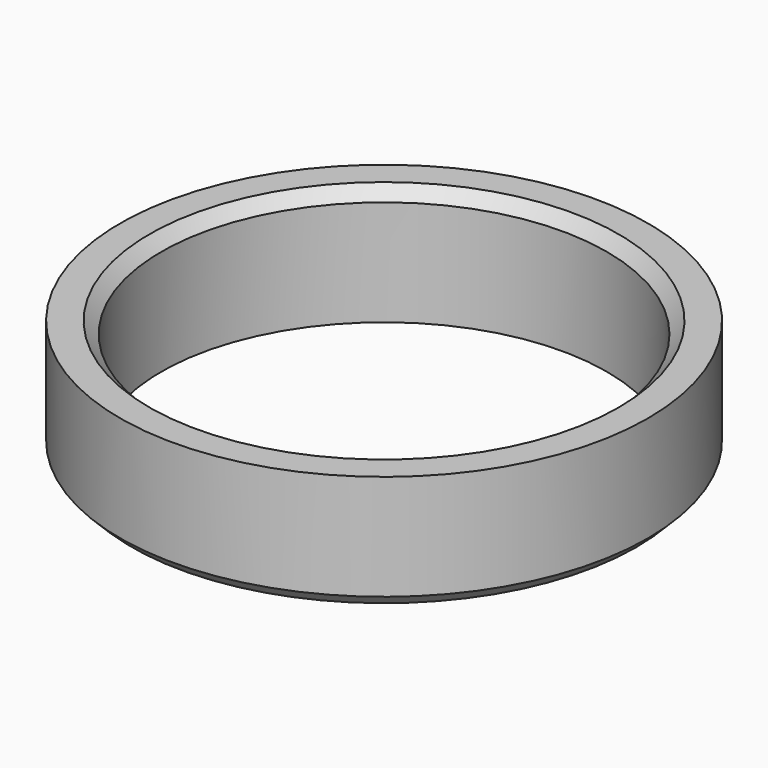
from build123d import *

# Parameters (mm, degrees)
SKETCH_R        = 22.5
SKETCH_R_2      = 19
PAD_DEPTH       = 10
CHAMFER_SIZE    = 1
CHAMFER001_SIZE = 1


with BuildPart() as part:
    # Sketch → Pad (new body)
    with BuildSketch(Plane.XY):
        Circle(SKETCH_R)
        Circle(SKETCH_R_2, mode=Mode.SUBTRACT)
    extrude(amount=PAD_DEPTH)

    # Chamfer
    chamfer_edges = [part.edges().sort_by_distance(p)[0] for p in [
        (-19, 0, 10),
    ]]
    chamfer(chamfer_edges, length=CHAMFER_SIZE)

    # Chamfer001
    chamfer001_edges = [part.edges().sort_by_distance(p)[0] for p in [
        (-22.5, 0, 0),
    ]]
    chamfer(chamfer001_edges, length=CHAMFER001_SIZE)


solid = part.part
